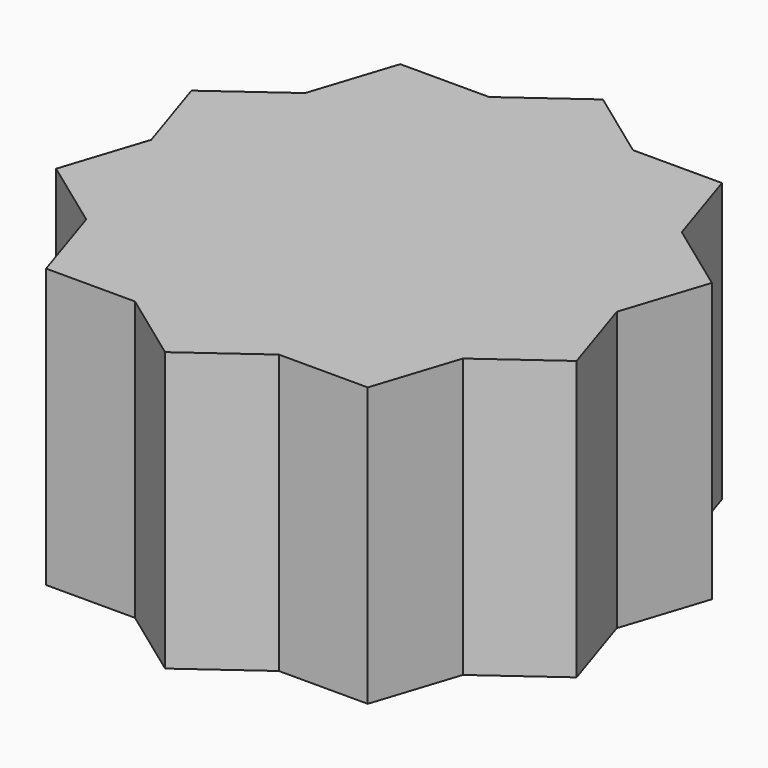
from build123d import *

# Parameters (mm, degrees)
F5_DEPTH = 30
F6_DEPTH = 30


with BuildPart() as f5:
    # F1 (on offset) → F5 (new body)
    with BuildSketch(Plane.XY.offset(15)):
        Polygon((17.3205, 23.839623), (-17.3205, 23.839623), (-28.025158, -9.105926), (0, -29.467395), (28.025158, -9.105926), align=None)
    extrude(amount=-F5_DEPTH)

    # F3 (on offset) → F6 (join)
    with BuildSketch(Plane.XY.offset(-15)):
        Polygon((-17.3205, -23.839623), (17.3205, -23.839623), (28.025158, 9.105926), (0, 29.467395), (-28.025158, 9.105926), align=None)
    extrude(amount=F6_DEPTH)


solid = f5.part
